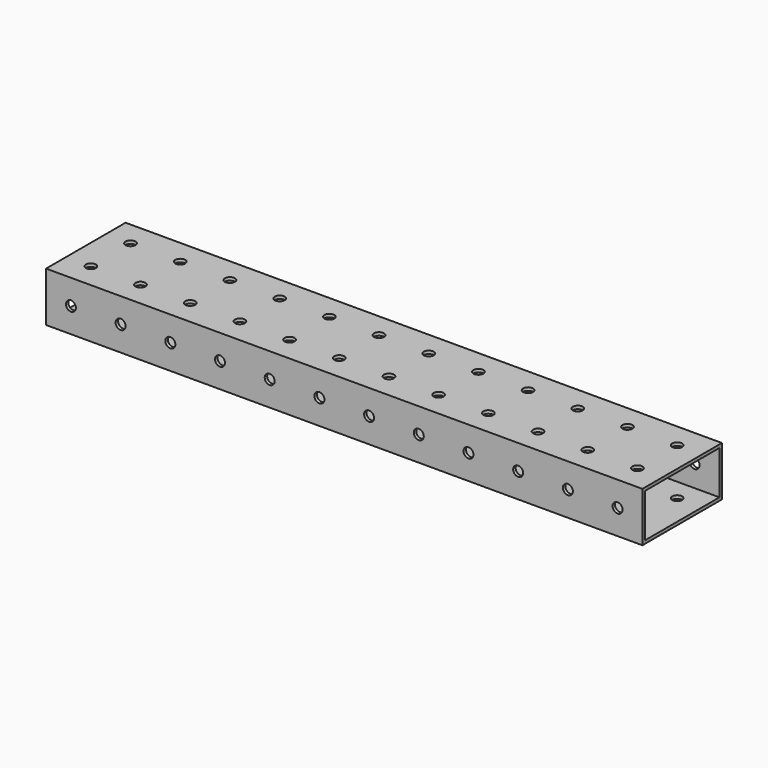
from build123d import *

# Parameters (mm, degrees)
F0_W     = 50.8
F0_H     = 25.4
F0_W_2   = 47.625
F0_H_2   = 22.225
F1_DEPTH = 304.8
F3_D     = 5.1054
F5_D     = 5.1054


with BuildPart() as f1:
    # F0 (on Right) → F1 (new body)
    with BuildSketch(Plane.YZ):
        Rectangle(F0_W, F0_H)
        Rectangle(F0_W_2, F0_H_2, mode=Mode.SUBTRACT)
    extrude(amount=F1_DEPTH)

    # F3 (through all)
    with Locations(Plane.XY.offset(12.7)):
        with Locations((38.1, -12.7), (63.5, 12.7), (63.5, -12.7), (88.9, 12.7), (88.9, -12.7), (114.3, 12.7), (292.1, -12.7), (266.7, -12.7), (241.3, -12.7), (215.9, -12.7), (190.5, -12.7), (165.1, -12.7), (292.1, 12.7), (266.7, 12.7), (241.3, 12.7), (215.9, 12.7), (114.3, -12.7), (190.5, 12.7), (139.7, 12.7), (139.7, -12.7), (165.1, 12.7), (12.7, 12.7), (12.7, -12.7), (38.1, 12.7)):
            Hole(F3_D / 2)

    # F5 (through all)
    with Locations(Plane(origin=(0, 25.4, 0), x_dir=(-1, 0, 0), z_dir=(0, 1, 0))):
        with Locations((-215.9, 0), (-241.3, 0), (-190.5, 0), (-139.7, 0), (-165.1, 0), (-88.9, 0), (-114.3, 0), (-266.7, 0), (-292.1, 0), (-12.7, 0), (-38.1, 0), (-63.5, 0)):
            Hole(F5_D / 2)


solid = f1.part
